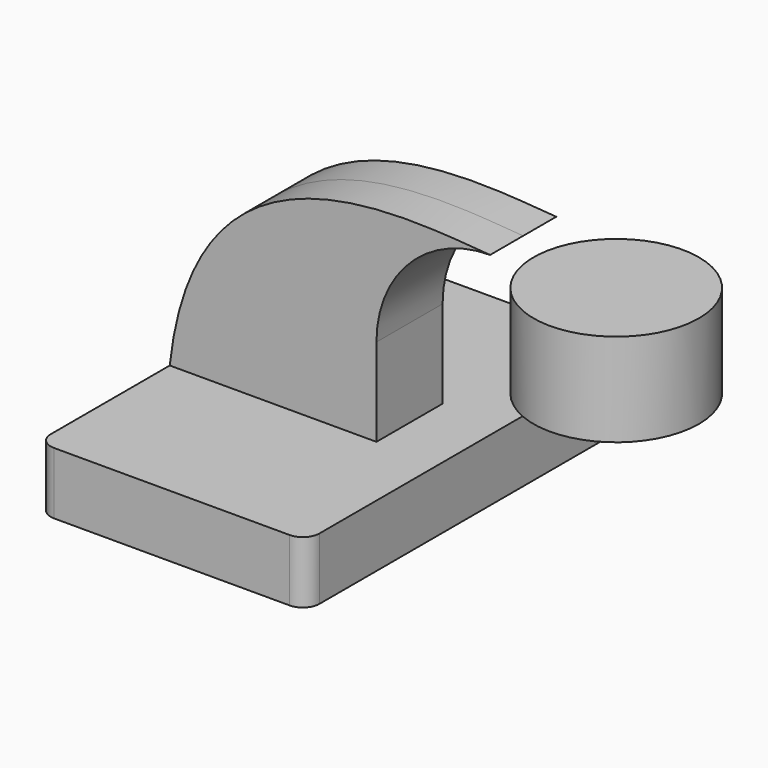
from build123d import *

# Parameters (mm, degrees)
F1_DEPTH = 63.5
F2_DEPTH = 12.7
F4_R     = 5.08


with BuildPart() as f1:
    # F0 (on Front) → F1 (new body, symmetric)
    with BuildSketch(Plane.XZ):
        Polygon((22.225, 9.525), (-41.275, 9.525), (-41.275, -9.525), (41.275, -9.525), (41.275, 9.525), align=None)
    extrude(amount=F1_DEPTH, both=True)

    # F0 (on Front) → F2 (join, symmetric)
    with BuildSketch(Plane.XZ):
        with BuildLine():
            add(Edge.make_bspline(
                [(57.15, 71.4375), (30.822843, 73.24753), (-33.411026, 82.19815), (-41.275, 9.525)],
                knots=[0, 0, 0, 0, 116.278279, 116.278279, 116.278279, 116.278279], degree=3))
            Line((-41.275, 9.525), (22.225, 9.525))
            Line((22.225, 9.525), (22.225, 36.5125))
            ThreePointArc((22.225, 36.5125), (32.454296, 61.208204), (57.15, 71.4375))
        make_face()
    extrude(amount=F2_DEPTH, both=True)

    # F4
    f4_edges = [f1.edges().sort_by_distance(p)[0] for p in [
        (41.275, 63.5, 0),
        (41.275, -63.5, 0),
        (-41.275, -63.5, 0),
        (-41.275, 63.5, 0),
    ]]
    fillet(f4_edges, radius=F4_R)


with BuildPart() as f3:
    # F0 (on Front) → F3 (revolve)
    with BuildSketch(Plane.XZ):
        Polygon((111.125, 66.675), (85.725, 66.675), (85.725, 52.3875), (85.725, 38.1), (111.125, 38.1), align=None)
    revolve(axis=Axis((85.725, 0, 54.76875), (0, 0, 1)))


solid = Compound([f1.part, f3.part])
